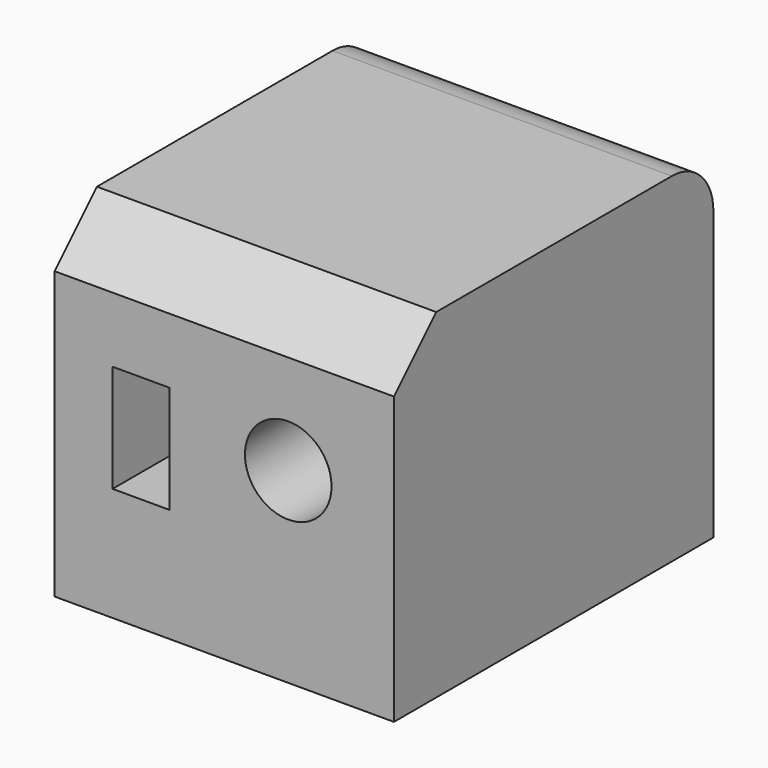
from build123d import *

# Parameters (mm, degrees)
F0_W     = 32.591233
F0_H     = 32.591233
F1_DEPTH = 38.354
F2_SIZE  = 5.08
F3_R     = 4.158382
F4_DEPTH = 40.132
F5_W     = 5.479913
F5_H     = 10.327767
F6_DEPTH = 9.906
F7_R     = 5


with BuildPart() as f1:
    # F0 (on Front) → F1 (new body)
    with BuildSketch(Plane.XZ):
        with Locations((-50.354915, 45.510276)):
            Rectangle(F0_W, F0_H)
    extrude(amount=F1_DEPTH)

    # F2
    f2_edges = [f1.edges().sort_by_distance(p)[0] for p in [
        (-50.354916, -38.354, 61.805893),
    ]]
    chamfer(f2_edges, length=F2_SIZE)

    # F3 (on face) → F4 (cut)
    with BuildSketch(Plane.XZ):
        with Locations((-44.212125, 47.174979)):
            Circle(F3_R)
    extrude(amount=F4_DEPTH, mode=Mode.SUBTRACT)

    # F5 (on face) → F6 (cut)
    with BuildSketch(Plane.XZ.offset(38.354)):
        with Locations((-58.341155, 45.296827)):
            Rectangle(F5_W, F5_H)
    extrude(amount=-F6_DEPTH, mode=Mode.SUBTRACT)

    # F7
    f7_edges = [f1.edges().sort_by_distance(p)[0] for p in [
        (-50.354916, 0, 61.805893),
    ]]
    fillet(f7_edges, radius=F7_R)


solid = f1.part
